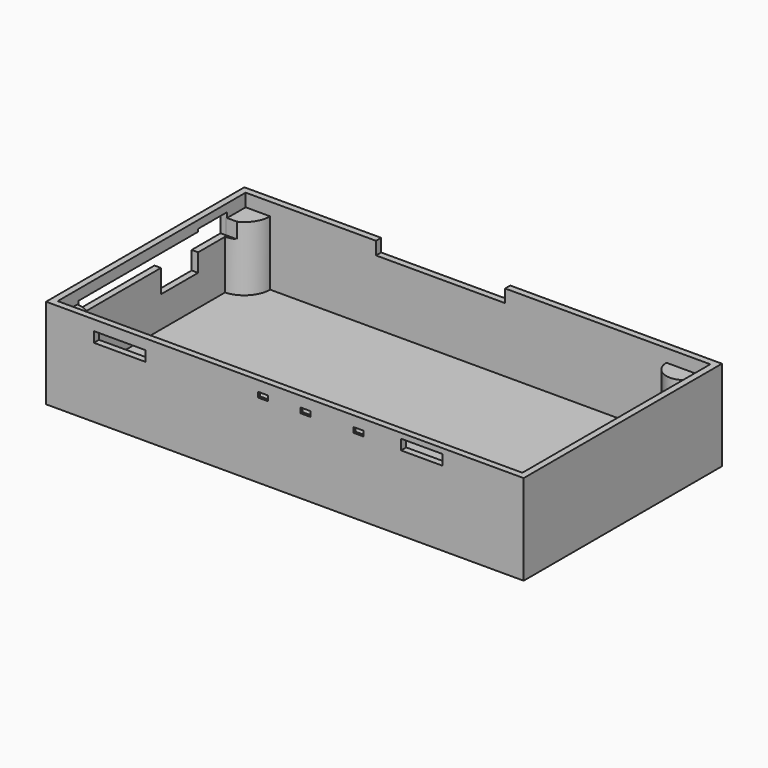
from build123d import *

# Parameters (mm, degrees)
CYLINDER_W                  = 10
CYLINDER_H                  = 30
CYLINDER_ANGLE              = 90
CYLINDER002_W               = 7
CYLINDER002_H               = 30
CYLINDER002_ANGLE           = 180
CYLINDER003_W               = 10
CYLINDER003_H               = 27
CYLINDER003_ANGLE           = 90
CYLINDER003_PLACEMENT_ANGLE = 90
BOX012_W                    = 8
BOX012_H                    = 2
BOX012_DEPTH                = 6
BOX011_W                    = 8
BOX011_H                    = 2
BOX011_DEPTH                = 6
BOX013_W                    = 8
BOX013_H                    = 2
BOX013_DEPTH                = 6
BOX008_W                    = 4
BOX008_H                    = 4
BOX008_DEPTH                = 2
BOX009_W                    = 4
BOX009_H                    = 4
BOX009_DEPTH                = 2
BOX007_W                    = 4
BOX007_H                    = 4
BOX007_DEPTH                = 2
BOX006_W                    = 20
BOX006_H                    = 10
BOX006_DEPTH                = 4
BOX005_W                    = 50
BOX005_H                    = 10
BOX005_DEPTH                = 5
BOX004_W                    = 10
BOX004_H                    = 42
BOX004_DEPTH                = 5
BOX003_W                    = 10
BOX003_H                    = 18
BOX003_DEPTH                = 14
BOX002_W                    = 10
BOX002_H                    = 14
BOX002_DEPTH                = 8
BOX010_W                    = 16
BOX010_H                    = 10
BOX010_DEPTH                = 4
BOX001_W                    = 180
BOX001_H                    = 91
BOX001_DEPTH                = 30
BOX_W                       = 185
BOX_H                       = 96
BOX_DEPTH                   = 35
CYLINDER001_W               = 10
CYLINDER001_H               = 30
CYLINDER001_ANGLE           = 90
CYLINDER001_PLACEMENT_ANGLE = -90


with BuildPart() as obj1:
    # Cylinder → Cylinder (revolve)
    with BuildSketch(Plane(origin=(2, 2, 0), x_dir=(1, 0, 0), z_dir=(0, -1, 0))):
        with Locations((5, 15)):
            Rectangle(CYLINDER_W, CYLINDER_H)
    revolve(axis=Axis((2, 2, 0), (0, 0, 1)), revolution_arc=CYLINDER_ANGLE)


with BuildPart() as obj2:
    # Cylinder002 → Cylinder002 (revolve)
    with BuildSketch(Plane(origin=(172.5, 93.5, 0), x_dir=(-1, 0, 0), z_dir=(0, 1, 0))):
        with Locations((3.5, 15)):
            Rectangle(CYLINDER002_W, CYLINDER002_H)
    revolve(axis=Axis((172.5, 93.5, 0), (0, 0, 1)), revolution_arc=CYLINDER002_ANGLE)


with BuildPart() as obj3:
    # Cylinder003 → Cylinder003 (revolve)
    with BuildSketch(Plane.XZ):
        with Locations((5, 13.5)):
            Rectangle(CYLINDER003_W, CYLINDER003_H)
    revolve(axis=Axis((0, 0, 0), (0, 0, 1)), revolution_arc=CYLINDER003_ANGLE)


with BuildPart() as obj3_1:
    # Cylinder003 placement: moved
    add(obj3.part.moved(Location((182.5, 0.5, 0))).rotate(Axis((182.5, 0.5, 0), (0, 0, 1)), CYLINDER003_PLACEMENT_ANGLE))


with BuildPart() as obj4:
    # Box012 → Box012 (new body)
    with BuildSketch(Plane(origin=(96.5, 1, 27), x_dir=(1, 0, 0), z_dir=(0, 0, 1))):
        with Locations((4, 1)):
            Rectangle(BOX012_W, BOX012_H)
    extrude(amount=BOX012_DEPTH)


with BuildPart() as obj5:
    # Box011 → Box011 (new body)
    with BuildSketch(Plane(origin=(80, 1, 27), x_dir=(1, 0, 0), z_dir=(0, 0, 1))):
        with Locations((4, 1)):
            Rectangle(BOX011_W, BOX011_H)
    extrude(amount=BOX011_DEPTH)


with BuildPart() as buttoncutouts:
    # Box013 → Box013 (new body)
    with BuildSketch(Plane(origin=(117, 1, 27), x_dir=(1, 0, 0), z_dir=(0, 0, 1))):
        with Locations((4, 1)):
            Rectangle(BOX013_W, BOX013_H)
    extrude(amount=BOX013_DEPTH)

    # Fusion001: union obj4, obj5
    add(obj4.part)
    add(obj5.part)


with BuildPart() as obj6:
    # Box008 → Box008 (new body)
    with BuildSketch(Plane(origin=(98.5, -2, 29), x_dir=(1, 0, 0), z_dir=(0, 0, 1))):
        with Locations((2, 2)):
            Rectangle(BOX008_W, BOX008_H)
    extrude(amount=BOX008_DEPTH)


with BuildPart() as power:
    # Box009 → Box009 (new body)
    with BuildSketch(Plane(origin=(119, -2, 29), x_dir=(1, 0, 0), z_dir=(0, 0, 1))):
        with Locations((2, 2)):
            Rectangle(BOX009_W, BOX009_H)
    extrude(amount=BOX009_DEPTH)


with BuildPart() as obj7:
    # Box007 → Box007 (new body)
    with BuildSketch(Plane(origin=(82, -2, 29), x_dir=(1, 0, 0), z_dir=(0, 0, 1))):
        with Locations((2, 2)):
            Rectangle(BOX007_W, BOX007_H)
    extrude(amount=BOX007_DEPTH)


with BuildPart() as obj8:
    # Box006 → Box006 (new body)
    with BuildSketch(Plane(origin=(18.5, -1, 27), x_dir=(1, 0, 0), z_dir=(0, 0, 1))):
        with Locations((10, 5)):
            Rectangle(BOX006_W, BOX006_H)
    extrude(amount=BOX006_DEPTH)


with BuildPart() as obj9:
    # Box005 → Box005 (new body)
    with BuildSketch(Plane(origin=(53, 87, 30), x_dir=(1, 0, 0), z_dir=(0, 0, 1))):
        with Locations((25, 5)):
            Rectangle(BOX005_W, BOX005_H)
    extrude(amount=BOX005_DEPTH)


with BuildPart() as ports:
    # Box004 → Box004 (new body)
    with BuildSketch(Plane(origin=(-1, 12.5, 26), x_dir=(1, 0, 0), z_dir=(0, 0, 1))):
        with Locations((5, 21)):
            Rectangle(BOX004_W, BOX004_H)
    extrude(amount=BOX004_DEPTH)


with BuildPart() as obj10:
    # Box003 → Box003 (new body)
    with BuildSketch(Plane(origin=(-1, 52.5, 17), x_dir=(1, 0, 0), z_dir=(0, 0, 1))):
        with Locations((5, 9)):
            Rectangle(BOX003_W, BOX003_H)
    extrude(amount=BOX003_DEPTH)


with BuildPart() as headphone:
    # Box002 → Box002 (new body)
    with BuildSketch(Plane(origin=(-1, 70.5, 24), x_dir=(1, 0, 0), z_dir=(0, 0, 1))):
        with Locations((5, 7)):
            Rectangle(BOX002_W, BOX002_H)
    extrude(amount=BOX002_DEPTH)


with BuildPart() as obj11:
    # Box010 → Box010 (new body)
    with BuildSketch(Plane(origin=(137.5, -1, 29), x_dir=(1, 0, 0), z_dir=(0, 0, 1))):
        with Locations((8, 5)):
            Rectangle(BOX010_W, BOX010_H)
    extrude(amount=BOX010_DEPTH)

    # Fusion: union obj6, Power, obj7, obj8, obj9, Ports, obj10, Headphone
    add(obj6.part)
    add(power.part)
    add(obj7.part)
    add(obj8.part)
    add(obj9.part)
    add(ports.part)
    add(obj10.part)
    add(headphone.part)


with BuildPart() as inside:
    # Box001 → Box001 (new body)
    with BuildSketch(Plane(origin=(2.5, 2.5, 5), x_dir=(1, 0, 0), z_dir=(0, 0, 1))):
        with Locations((90, 45.5)):
            Rectangle(BOX001_W, BOX001_H)
    extrude(amount=BOX001_DEPTH)


with BuildPart() as shell001:
    # Box → Box (new body)
    with BuildSketch(Plane.XY):
        with Locations((92.5, 48)):
            Rectangle(BOX_W, BOX_H)
    extrude(amount=BOX_DEPTH)

    # Cut: cut Inside
    add(inside.part, mode=Mode.SUBTRACT)

    # Cut001: cut obj11
    add(obj11.part, mode=Mode.SUBTRACT)

    # Cut002: cut ButtonCutouts
    add(buttoncutouts.part, mode=Mode.SUBTRACT)


with BuildPart() as obj12:
    # Cylinder001 → Cylinder001 (revolve)
    with BuildSketch(Plane.XZ):
        with Locations((5, 15)):
            Rectangle(CYLINDER001_W, CYLINDER001_H)
    revolve(axis=Axis((0, 0, 0), (0, 0, 1)), revolution_arc=CYLINDER001_ANGLE)


with BuildPart() as obj12_1:
    # Cylinder001 placement: moved
    add(obj12.part.moved(Location((2, 93.5, 0))).rotate(Axis((2, 93.5, 0), (0, 0, 1)), CYLINDER001_PLACEMENT_ANGLE))

    # Cut003: cut Headphone
    add(headphone.part, mode=Mode.SUBTRACT)


solid = Compound([obj1.part, obj2.part, obj3_1.part, shell001.part, obj12_1.part])
